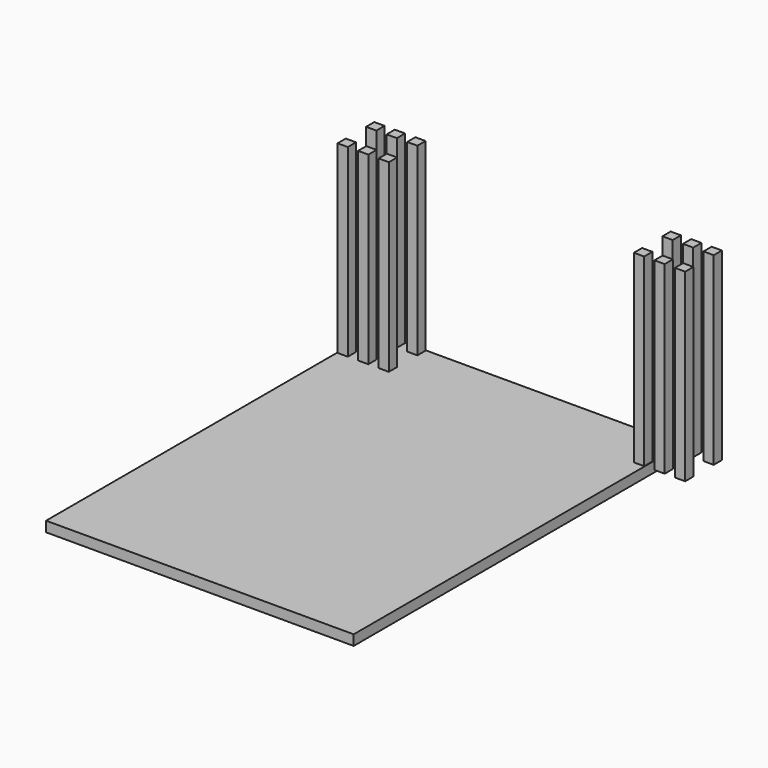
from build123d import *

# Parameters (mm, degrees)
F0_W     = 381
F0_H     = 508
F1_DEPTH = 12.7
F2_W     = 12.7
F2_H     = 12.7
F3_DEPTH = 228.6


with BuildPart() as f1:
    # F0 (on Top) → F1 (new body)
    with BuildSketch(Plane.XY):
        Rectangle(F0_W, F0_H)
    extrude(amount=F1_DEPTH)

    # F2 (on face) → F3 (join)
    with BuildSketch(Plane.XY.offset(12.7)):
        with Locations((-183.515, 247.015)):
            Rectangle(F2_W, F2_H)
        with Locations((183.515, 247.015)):
            Rectangle(F2_W, F2_H)
        with Locations((-183.515, 202.819)):
            Rectangle(F2_W, F2_H)
        with Locations((183.515, 202.819)):
            Rectangle(F2_W, F2_H)
        with Locations((-158.115, 247.015)):
            Rectangle(F2_W, F2_H)
        with Locations((208.915, 247.015)):
            Rectangle(F2_W, F2_H)
        with Locations((-158.115, 202.819)):
            Rectangle(F2_W, F2_H)
        with Locations((208.915, 202.819)):
            Rectangle(F2_W, F2_H)
        with Locations((-132.715, 247.015)):
            Rectangle(F2_W, F2_H)
        with Locations((234.315, 247.015)):
            Rectangle(F2_W, F2_H)
        with Locations((-132.715, 202.819)):
            Rectangle(F2_W, F2_H)
        with Locations((234.315, 202.819)):
            Rectangle(F2_W, F2_H)
    extrude(amount=F3_DEPTH)


solid = f1.part
